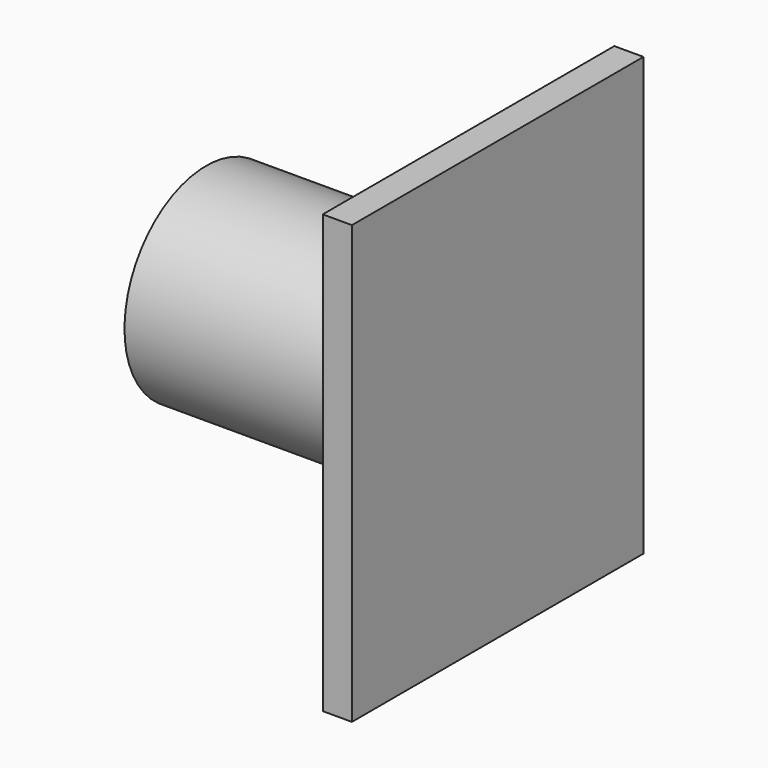
from build123d import *

# Parameters (mm, degrees)
BOX002_W                = 2
BOX002_H                = 25
BOX002_DEPTH            = 30
CYLINDER024_R           = 7
CYLINDER024_DEPTH       = 20
CYLINDER024_PITCH_ANGLE = 90
BOX027_W                = 3
BOX027_H                = 14
BOX027_DEPTH            = 14


with BuildPart() as obj1:
    # Box002 → Box002 (new body)
    with BuildSketch(Plane(origin=(-28, -12.5, -15), x_dir=(1, 0, 0), z_dir=(0, 0, 1))):
        with Locations((1, 12.5)):
            Rectangle(BOX002_W, BOX002_H)
    extrude(amount=BOX002_DEPTH)


with BuildPart() as obj2:
    # Cylinder024 → Cylinder024 (new body)
    with BuildSketch(Plane.XY):
        Circle(CYLINDER024_R)
    extrude(amount=CYLINDER024_DEPTH)


with BuildPart() as obj2_1:
    # Cylinder024 pitch: moved
    add(obj2.part.rotate(Axis((0, 0, 0), (0, 1, 0)), CYLINDER024_PITCH_ANGLE))


with BuildPart() as obj2_2:
    # Cylinder024 placement: moved
    add(obj2_1.part.moved(Location((-46, 0, 0))))


with BuildPart() as obj3:
    # Box027 → Box027 (new body)
    with BuildSketch(Plane(origin=(-31, -7, -7), x_dir=(1, 0, 0), z_dir=(0, 0, 1))):
        with Locations((1.5, 7)):
            Rectangle(BOX027_W, BOX027_H)
    extrude(amount=BOX027_DEPTH)

    # Fusion017: union obj1, obj2
    add(obj1.part)
    add(obj2_2.part)


solid = obj3.part
